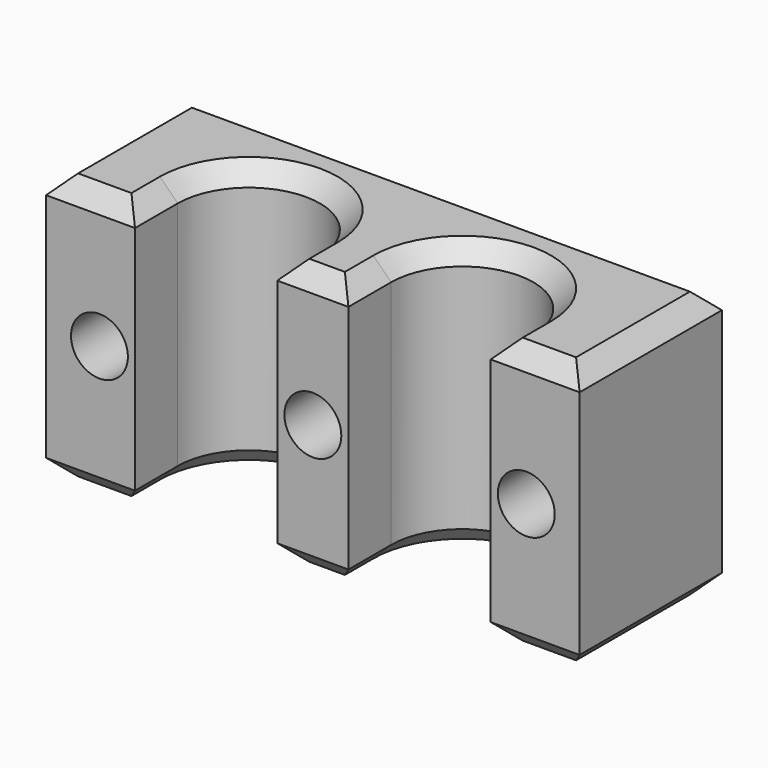
from build123d import *

# Parameters (mm, degrees)
PAD_DEPTH    = 15
SKETCH001_R  = 1.6
POCKET_DEPTH = 10.001
CHAMFER_SIZE = 1


with BuildPart() as part:
    # Sketch → Pad (new body)
    with BuildSketch(Plane.XY):
        with BuildLine():
            ThreePointArc((-2, 3), (-6, 7), (-10, 3))
            Line((-10, 3), (-10, 0))
            Line((-10, 0), (-15, 0))
            Line((-15, 0), (-15, 10))
            Line((15, 10), (-15, 10))
            Line((15, 0), (15, 10))
            Line((10, 0), (15, 0))
            Line((10, 3), (10, 0))
            ThreePointArc((10, 3), (6, 7), (2, 3))
            Line((2, 0), (2, 3))
            Line((-2, 0), (2, 0))
            Line((-2, 3), (-2, 0))
        make_face()
    extrude(amount=PAD_DEPTH)

    # Sketch001 → Pocket (cut, through all)
    with BuildSketch(Plane.XZ):
        with Locations((0, 7.5)):
            Circle(SKETCH001_R)
        with Locations((-12, 7.5)):
            Circle(SKETCH001_R)
        with Locations((12, 7.5)):
            Circle(SKETCH001_R)
    extrude(amount=-POCKET_DEPTH, mode=Mode.SUBTRACT)

    # Chamfer
    chamfer_edges = [part.edges().sort_by_distance(p)[0] for p in [
        (-2, 1.5, 15),
        (-6, 7, 15),
        (-10, 1.5, 15),
        (-12.5, 0, 15),
        (-15, 5, 15),
        (0, 10, 15),
        (15, 5, 15),
        (12.5, 0, 15),
        (10, 1.5, 15),
        (6, 7, 15),
        (2, 1.5, 15),
        (0, 0, 15),
        (-2, 1.5, 0),
        (-6, 7, 0),
        (-10, 1.5, 0),
        (-12.5, 0, 0),
        (-15, 5, 0),
        (0, 10, 0),
        (15, 5, 0),
        (12.5, 0, 0),
        (10, 1.5, 0),
        (6, 7, 0),
        (2, 1.5, 0),
        (0, 0, 0),
    ]]
    chamfer(chamfer_edges, length=CHAMFER_SIZE)


solid = part.part
